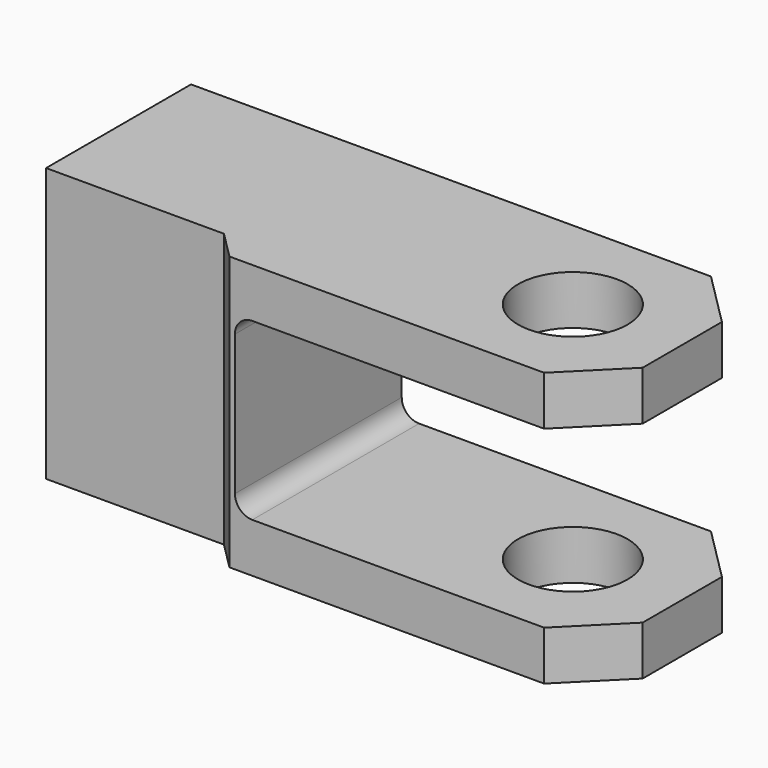
from build123d import *

# Parameters (mm, degrees)
F0_W     = 210
F0_H     = 100
F1_DEPTH = 76.2
F2_W     = 133
F2_H     = 64
F3_DEPTH = 76.201
F4_R     = 6.35
F5_R     = 20
F6_DEPTH = 100.001
F8_DEPTH = 100.001


with BuildPart() as f1:
    # F0 (on Front) → F1 (new body)
    with BuildSketch(Plane.XZ):
        with Locations((105, 50)):
            Rectangle(F0_W, F0_H)
    extrude(amount=F1_DEPTH)

    # F2 (on face) → F3 (cut, through all)
    with BuildSketch(Plane.XZ.offset(76.2)):
        with Locations((143.5, 50)):
            Rectangle(F2_W, F2_H)
    extrude(amount=-F3_DEPTH, mode=Mode.SUBTRACT)

    # F4
    f4_edges = [f1.edges().sort_by_distance(p)[0] for p in [
        (77, -38.1, 82),
        (77, -38.1, 18),
    ]]
    fillet(f4_edges, radius=F4_R)

    # F5 (on face) → F6 (cut, through all)
    with BuildSketch(Plane.XY.offset(100)):
        Polygon((190, 16.513776), (190, 0), (210, -20), (210, -56.2), (190, -76.2), (190, -91.743216), (258.705469, -91.743216), (258.705469, 16.513776), align=None)
        with Locations((170, -38.1)):
            Circle(F5_R)
    extrude(amount=-F6_DEPTH, mode=Mode.SUBTRACT)

    # F7 (on face) → F8 (cut, through all)
    with BuildSketch(Plane.XY.offset(100)):
        Polygon((65, -66.2), (0, -66.2), (0, -76.2), (75, -76.2), align=None)
    extrude(amount=-F8_DEPTH, mode=Mode.SUBTRACT)


solid = f1.part
